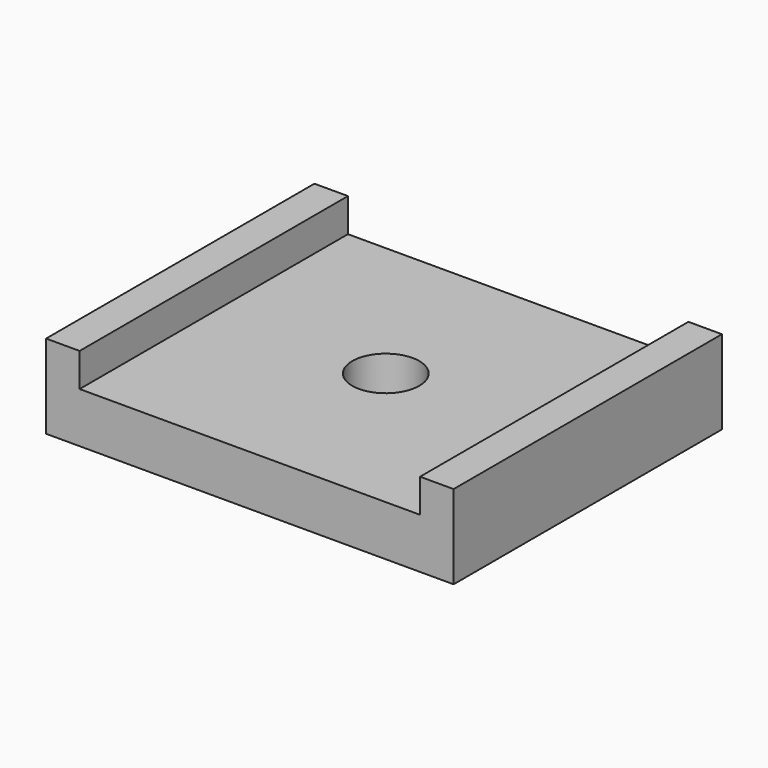
from build123d import *

# Parameters (mm, degrees)
F0_R     = 2
F1_DEPTH = 3
F2_W     = 2
F2_H     = 20
F3_DEPTH = 2


with BuildPart() as f1:
    # F0 (on Top) → F1 (new body)
    with BuildSketch(Plane.XY):
        Polygon((-10.15, -0.133423), (0, -0.133423), (10.15, -0.133423), (12.15, -0.133423), (12.15, 19.866577), (10.15, 19.866577), (0, 19.866577), (-10.15, 19.866577), (-12.15, 19.866577), (-12.15, -0.133423), align=None)
        with Locations((0, 10)):
            Circle(F0_R, mode=Mode.SUBTRACT)
    extrude(amount=F1_DEPTH)

    # F2 (on face) → F3 (join)
    with BuildSketch(Plane.XY.offset(3)):
        with Locations((11.15, 9.866577)):
            Rectangle(F2_W, F2_H)
        with Locations((-11.15, 9.866577)):
            Rectangle(F2_W, F2_H)
    extrude(amount=F3_DEPTH)


solid = f1.part
